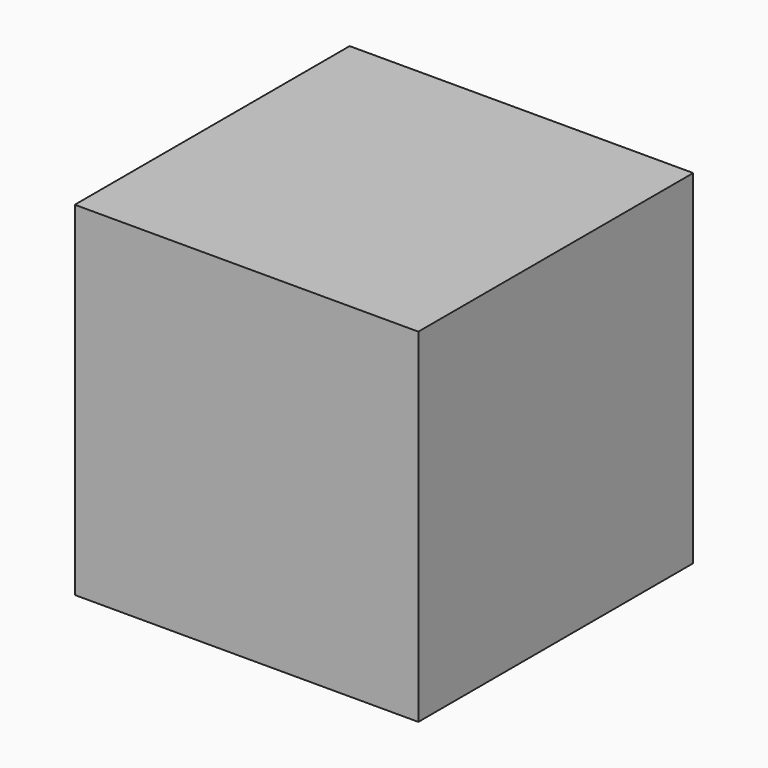
from build123d import *

# Parameters (mm, degrees)
F0_W     = 609.6
F0_H     = 609.6
F1_DEPTH = 304.8
F2_R     = 38.1
F3_DEPTH = 25.4


with BuildPart() as f1:
    # F0 (on Front) → F1 (new body, symmetric)
    with BuildSketch(Plane.XZ):
        with Locations((0, -304.8)):
            Rectangle(F0_W, F0_H)
    extrude(amount=F1_DEPTH, both=True)

    # F2 (on face) → F3 (cut)
    with BuildSketch(Plane(origin=(0, 0, -609.6), x_dir=(1, 0, 0), z_dir=(0, 0, -1))):
        Circle(F2_R)
    extrude(amount=-F3_DEPTH, mode=Mode.SUBTRACT)


solid = f1.part
